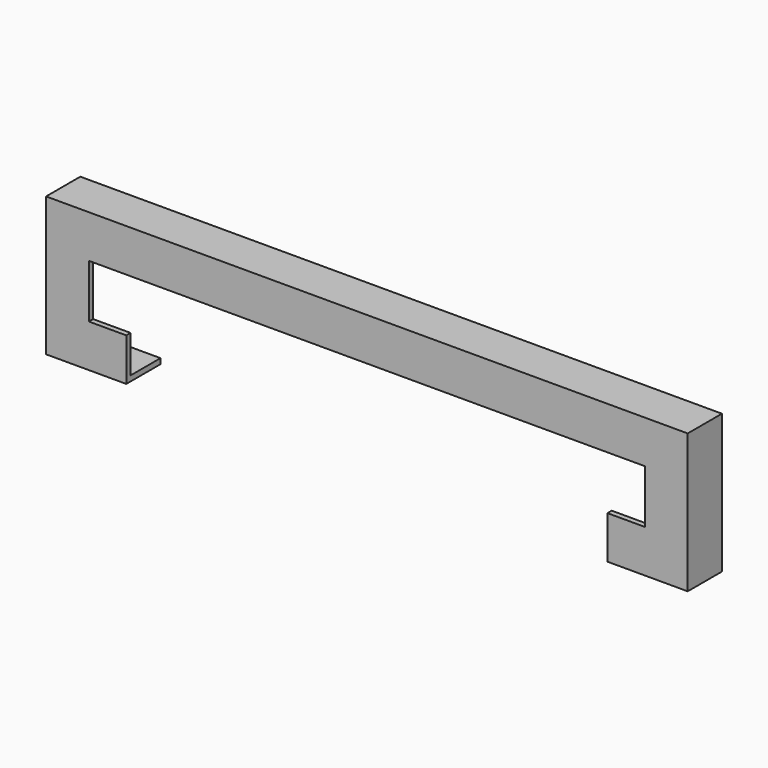
from build123d import *

# Parameters (mm, degrees)
F1_DEPTH  = 5
F3_DEPTH  = 120
F4_W      = 600
F4_H      = 40
F5_DEPTH  = 5
F7_DEPTH  = 120
F8_W      = 75
F8_H      = 40
F9_DEPTH  = 5
F10_W     = 5
F10_H     = 35
F11_DEPTH = 520
F12_W     = 35
F12_H     = 5
F13_DEPTH = 35
F14_W     = 35
F14_H     = 5
F15_DEPTH = 35


with BuildPart() as f1:
    # F0 (on Top) → F1 (new body)
    with BuildSketch(Plane.XY):
        Polygon((0, -20), (37.5, -20), (37.5, 20), (-37.5, 20), (-37.5, -20), align=None)
    extrude(amount=-F1_DEPTH)

    # F2 (on face) → F3 (join)
    with BuildSketch(Plane.XY):
        Polygon((-32.5, 20), (-37.5, 20), (-37.5, -20), (2.5, -20), (2.5, -15), (-32.5, -15), align=None)
    extrude(amount=F3_DEPTH)

    # F4 (on face) → F5 (join)
    with BuildSketch(Plane.XY.offset(120)):
        with Locations((262.5, 0)):
            Rectangle(F4_W, F4_H)
    extrude(amount=F5_DEPTH)

    # F6 (on face) → F7 (join)
    with BuildSketch(Plane(origin=(0, 0, 120), x_dir=(1, 0, 0), z_dir=(0, 0, -1))):
        Polygon((557.5, -20), (562.5, -20), (562.5, 20), (522.5, 20), (522.5, 15), (557.5, 15), align=None)
    extrude(amount=F7_DEPTH)

    # F8 (on face) → F9 (join)
    with BuildSketch(Plane(origin=(0, 0, 0), x_dir=(1, 0, 0), z_dir=(0, 0, -1))):
        with Locations((525, 0)):
            Rectangle(F8_W, F8_H)
    extrude(amount=F9_DEPTH)

    # F10 (on face) → F11 (join)
    with BuildSketch(Plane.YZ.offset(2.5)):
        with Locations((-17.5, 102.5)):
            Rectangle(F10_W, F10_H)
    extrude(amount=F11_DEPTH)

    # F12 (on face) → F13 (join)
    with BuildSketch(Plane.XY):
        with Locations((20, -17.5)):
            Rectangle(F12_W, F12_H)
    extrude(amount=F13_DEPTH)

    # F14 (on face) → F15 (join)
    with BuildSketch(Plane.XY):
        with Locations((505, -17.5)):
            Rectangle(F14_W, F14_H)
    extrude(amount=F15_DEPTH)


solid = f1.part
